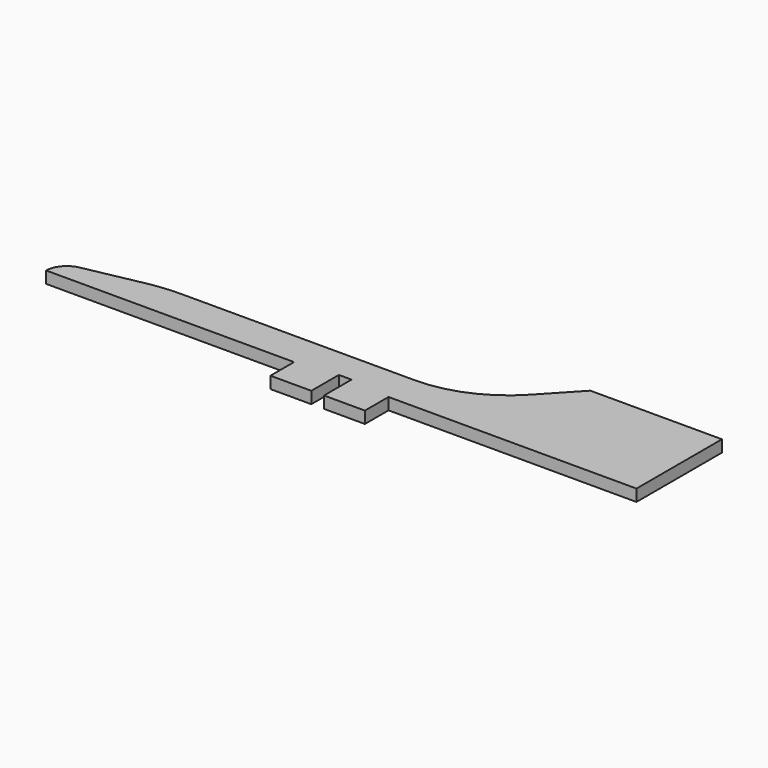
from build123d import *

# Parameters (mm, degrees)
PAD_DEPTH = 2


with BuildPart() as part:
    # CopySketch004 → Pad (new body, symmetric)
    with BuildSketch(Plane.XY):
        with BuildLine():
            Line((-94.244626, 6.836694), (-74.920651, 10.704806))
            ThreePointArc((-63.603328, 11.826385), (-69.28971, 11.545305), (-74.920651, 10.704806))
            Line((-63.603328, 11.826385), (-42.55212, 11.826385))
            Line((-42.55212, 11.826385), (15.371862, 11.826385))
            ThreePointArc((15.371862, 11.826385), (31.195362, 15.106628), (44.410932, 24.406728))
            Line((44.410932, 24.406728), (55.444454, 36.175392))
            Line((55.444454, 36.175392), (100, 36.175392))
            Line((100, 36.175392), (100, 0))
            Line((100, 0), (16, 0))
            Line((16, -10), (16, 0))
            Line((2.15, -10), (16, -10))
            Line((2.15, 1.647389), (2.15, -10))
            Line((-2.15, 1.647389), (2.15, 1.647389))
            Line((-2.15, -10), (-2.15, 1.647389))
            Line((-16, -10), (-2.15, -10))
            Line((-16, 0), (-16, -10))
            Line((-16, 0), (-100, 0))
            ThreePointArc((-94.244626, 6.836694), (-98.319024, 4.425781), (-100, 0))
        make_face()
    extrude(amount=PAD_DEPTH, both=True)


solid = part.part
